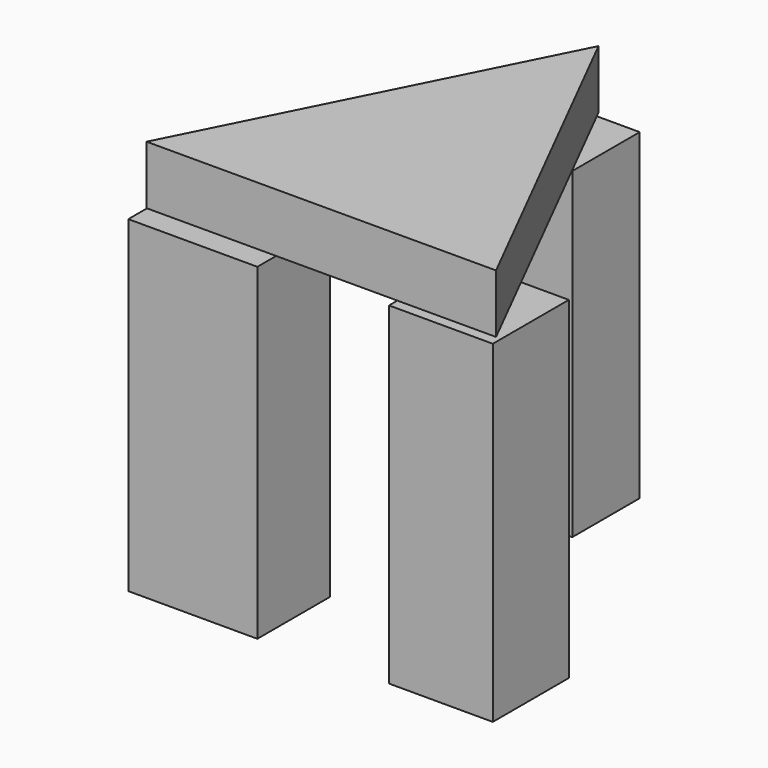
from build123d import *

# Parameters (mm, degrees)
F1_DEPTH = 25.4
F4_W     = 55.9908
F4_H     = 39.370671
F5_DEPTH = 142.071173
F6_W     = 39.675076
F6_H     = 36.552988
F7_DEPTH = 139.835253
F8_W     = 45.023777
F8_H     = 41.238799
F9_DEPTH = 144.416898


with BuildPart() as f1:
    # F0 (on Top) → F1 (new body)
    with BuildSketch(Plane.XY):
        Polygon((0, 74.892037), (-75.72189, -75.514391), (75.72183, -75.306922), align=None)
    extrude(amount=F1_DEPTH)

    # F2 (on face) + F4 (on face) → F5 (join)
    with BuildSketch(Plane(origin=(0, 0, 0), x_dir=(1, 0, 0), z_dir=(0, 0, -1))):
        Polygon((-41.094646, 48.674494), (-41.094646, 75.466954), (-75.72189, 75.514391), (-62.209384, 48.674494), align=None)
    with BuildSketch(Plane(origin=(0, 0, 0), x_dir=(1, 0, 0), z_dir=(0, 0, -1))):
        with Locations((-47.557339, 65.946586)):
            Rectangle(F4_W, F4_H)
    extrude(amount=F5_DEPTH)

    # F6 (on face) → F7 (join)
    with BuildSketch(Plane(origin=(0, 0, 0), x_dir=(1, 0, 0), z_dir=(0, 0, -1))):
        with Locations((0, -54.166105)):
            Rectangle(F6_W, F6_H)
    extrude(amount=F7_DEPTH)

    # F8 (on face) → F9 (join)
    with BuildSketch(Plane(origin=(0, 0, 0), x_dir=(1, 0, 0), z_dir=(0, 0, -1))):
        with Locations((55.466999, 59.285469)):
            Rectangle(F8_W, F8_H)
    extrude(amount=F9_DEPTH)


solid = f1.part
